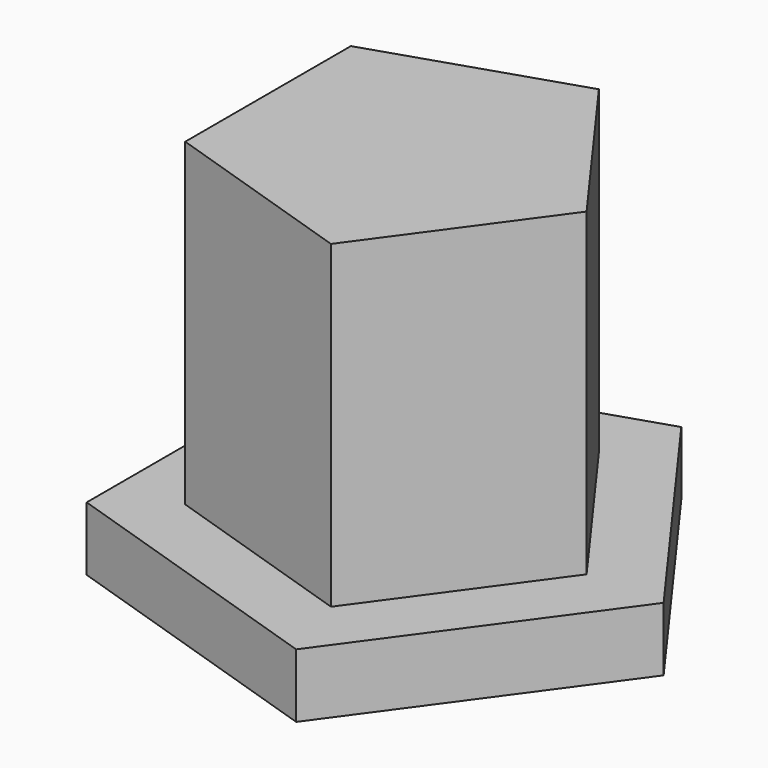
from build123d import *

# Parameters (mm, degrees)
F1_DEPTH = 5.08
F3_DEPTH = 25.4


with BuildPart() as f1:
    # F0 (on Top) → F1 (new body)
    with BuildSketch(Plane.XY):
        Polygon((-16.28522, 11.831905), (-16.28522, -11.831905), (6.220401, -19.144424), (20.129639, 0), (6.220401, 19.144424), align=None)
    extrude(amount=F1_DEPTH)

    # F2 (on face) → F3 (join)
    with BuildSketch(Plane.XY.offset(5.08)):
        Polygon((-11.328849, 8.230891), (-11.328849, -8.230891), (4.327235, -13.317861), (14.003227, 0), (4.327235, 13.317861), align=None)
    extrude(amount=F3_DEPTH)


solid = f1.part
